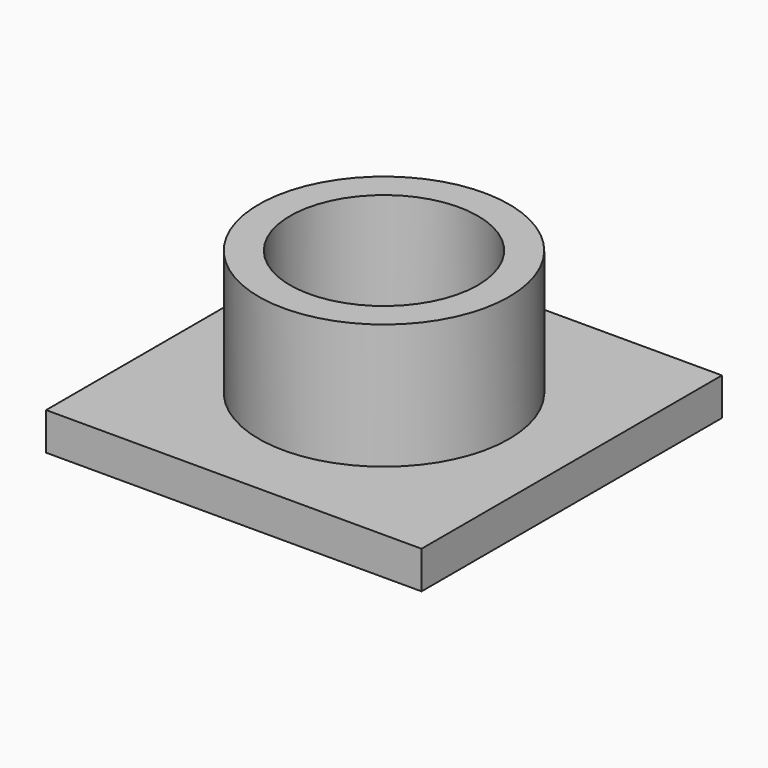
from build123d import *

# Parameters (mm, degrees)
SKETCH_W      = 60
SKETCH_H      = 60
PAD_DEPTH     = 6
SKETCH001_R   = 20
SKETCH001_R_2 = 15
PAD001_DEPTH  = 20


with BuildPart() as part:
    # Sketch → Pad (new body)
    with BuildSketch(Plane.XY):
        Rectangle(SKETCH_W, SKETCH_H)
    extrude(amount=-PAD_DEPTH)

    # Sketch001 → Pad001 (join)
    with BuildSketch(Plane.XY):
        Circle(SKETCH001_R)
        Circle(SKETCH001_R_2, mode=Mode.SUBTRACT)
    extrude(amount=PAD001_DEPTH)


solid = part.part
